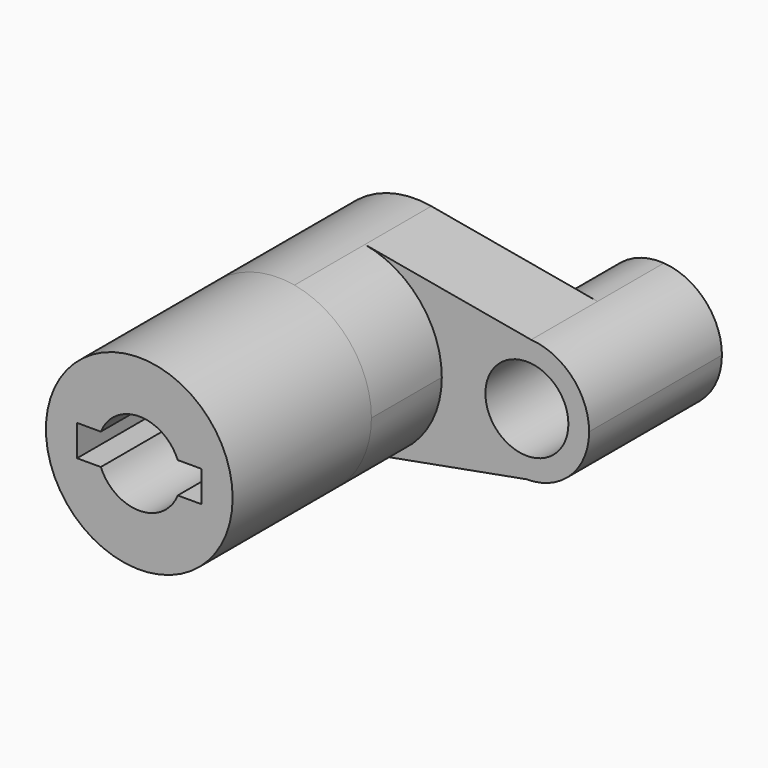
from build123d import *

# Parameters (mm, degrees)
F0_R      = 12.7
F1_DEPTH  = 25.4
F2_DEPTH  = 52.324
F2_FACE_R = 28.575
F3_DEPTH  = 53.086
F4_DEPTH  = 25.4


with BuildPart() as f1:
    # F0 (on Front) → F1 (new body)
    with BuildSketch(Plane.XZ):
        with BuildLine():
            ThreePointArc((73.66, 0), (68.532063, 13.003025), (55.908961, 19.005662))
            ThreePointArc((55.908961, 19.005662), (35.573845, 0.726161), (54.457296, -19.049388))
            ThreePointArc((54.457296, -19.049388), (68.026287, -13.524265), (73.66, 0))
        make_face()
        with Locations((54.61, 0)):
            Circle(F0_R, mode=Mode.SUBTRACT)
        with BuildLine():
            ThreePointArc((5.16281, -28.104733), (21.955158, -18.289387), (28.575, 0))
            ThreePointArc((28.575, 0), (21.91626, 18.33598), (5.043369, 28.126412))
            ThreePointArc((5.043369, 28.126412), (-28.574936, -0.060696), (5.16281, -28.104733))
        make_face()
        with BuildLine():
            ThreePointArc((-11.773215, 4.7625), (0, 12.7), (11.773215, 4.7625))
            Line((11.773215, 4.7625), (19.05, 4.7625))
            Line((19.05, 4.7625), (19.05, -4.7625))
            Line((19.05, -4.7625), (11.773215, -4.7625))
            ThreePointArc((11.773215, -4.7625), (0, -12.7), (-11.773215, -4.7625))
            Line((-11.773215, -4.7625), (-19.05, -4.7625))
            Line((-19.05, -4.7625), (-19.05, 4.7625))
            Line((-19.05, 4.7625), (-11.773215, 4.7625))
        make_face(mode=Mode.SUBTRACT)
        with BuildLine():
            ThreePointArc((5.043369, 28.126412), (21.91626, 18.33598), (28.575, 0))
            ThreePointArc((28.575, 0), (21.955158, -18.289387), (5.16281, -28.104733))
            Line((5.16281, -28.104733), (54.457296, -19.049388))
            ThreePointArc((54.457296, -19.049388), (35.573845, 0.726161), (55.908961, 19.005662))
            Line((55.908961, 19.005662), (5.043369, 28.126412))
        make_face()
    extrude(amount=F1_DEPTH)

    # F0 (on Front) → F2 (join)
    with BuildSketch(Plane.XZ):
        with BuildLine():
            ThreePointArc((5.16281, -28.104733), (21.955158, -18.289387), (28.575, 0))
            ThreePointArc((28.575, 0), (21.91626, 18.33598), (5.043369, 28.126412))
            ThreePointArc((5.043369, 28.126412), (-28.574936, -0.060696), (5.16281, -28.104733))
        make_face()
        with BuildLine():
            ThreePointArc((-11.773215, 4.7625), (0, 12.7), (11.773215, 4.7625))
            Line((11.773215, 4.7625), (19.05, 4.7625))
            Line((19.05, 4.7625), (19.05, -4.7625))
            Line((19.05, -4.7625), (11.773215, -4.7625))
            ThreePointArc((11.773215, -4.7625), (0, -12.7), (-11.773215, -4.7625))
            Line((-11.773215, -4.7625), (-19.05, -4.7625))
            Line((-19.05, -4.7625), (-19.05, 4.7625))
            Line((-19.05, 4.7625), (-11.773215, 4.7625))
        make_face(mode=Mode.SUBTRACT)
    extrude(amount=F2_DEPTH)

    # F2_face (on face) → F3 (join)
    with BuildSketch(Plane.XZ.offset(52.324)):
        Circle(F2_FACE_R)
        with BuildLine():
            ThreePointArc((-11.773215, 4.7625), (0, 12.7), (11.773215, 4.7625))
            Line((11.773215, 4.7625), (19.05, 4.7625))
            Line((19.05, 4.7625), (19.05, -4.7625))
            Line((19.05, -4.7625), (11.773215, -4.7625))
            ThreePointArc((11.773215, -4.7625), (0, -12.7), (-11.773215, -4.7625))
            Line((-11.773215, -4.7625), (-19.05, -4.7625))
            Line((-19.05, -4.7625), (-19.05, 4.7625))
            Line((-19.05, 4.7625), (-11.773215, 4.7625))
        make_face(mode=Mode.SUBTRACT)
    extrude(amount=F3_DEPTH)

    # F0 (on Front) → F4 (join)
    with BuildSketch(Plane.XZ):
        with BuildLine():
            ThreePointArc((73.66, 0), (68.532063, 13.003025), (55.908961, 19.005662))
            ThreePointArc((55.908961, 19.005662), (35.573845, 0.726161), (54.457296, -19.049388))
            ThreePointArc((54.457296, -19.049388), (68.026287, -13.524265), (73.66, 0))
        make_face()
        with Locations((54.61, 0)):
            Circle(F0_R, mode=Mode.SUBTRACT)
    extrude(amount=-F4_DEPTH)


solid = f1.part
